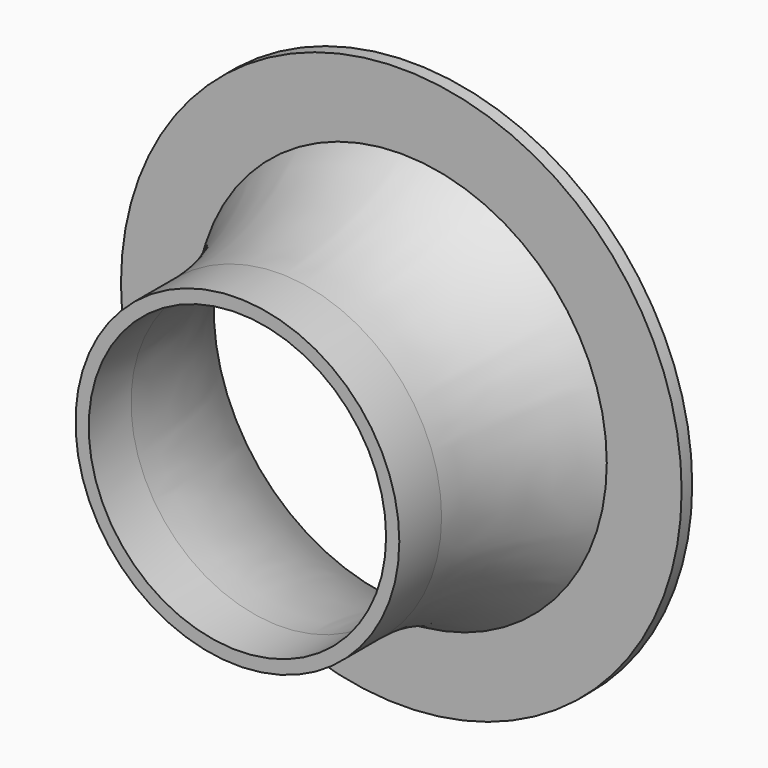
from build123d import *


with BuildPart() as f2:
    # F0 (on Top) → F2 (revolve)
    with BuildSketch(Plane.XY):
        with BuildLine():
            Line((22.5, 8), (22.5, 0))
            Line((22.5, 0), (24.5, 0))
            Line((24.5, 0), (24.5, 8))
            ThreePointArc((24.5, 8), (26.1806974125, 19.9631022255), (31.0926670951, 31))
            Line((31.0926670951, 31), (42.4200901494, 31))
            Line((42.4200901494, 31), (42.4200901494, 33))
            Line((42.4200901494, 33), (32.4200901494, 33))
            Line((32.4200901494, 33), (30, 33))
            ThreePointArc((30, 33), (24.4153895462, 21.0503831361), (22.5, 8))
        make_face()
    revolve(axis=Axis((0, 0, 0), (0, -1, 0)))


solid = f2.part
